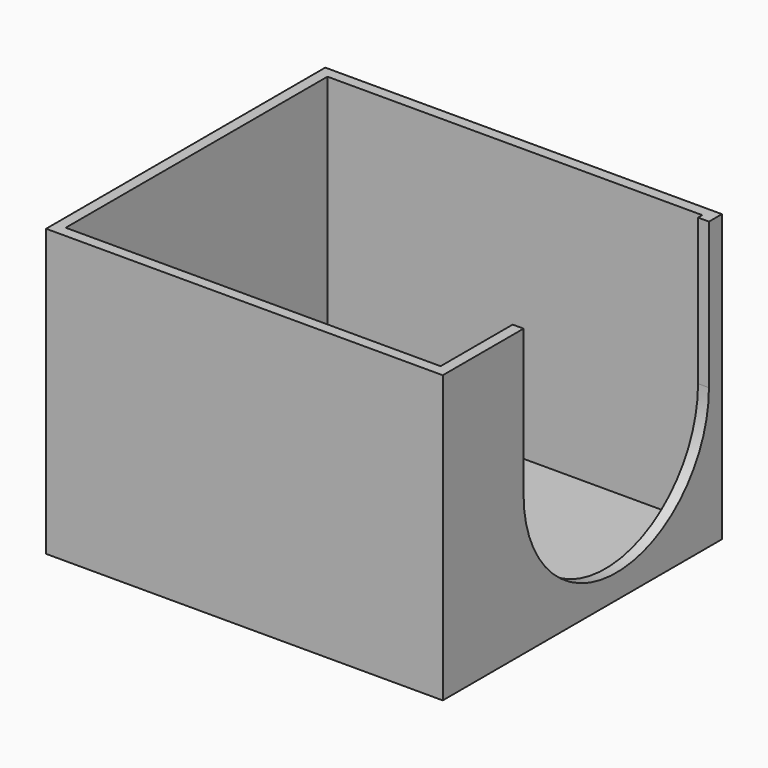
from build123d import *

# Parameters (mm, degrees)
F0_W     = 55
F0_H     = 48
F1_DEPTH = 2
F0_W_2   = 58.2
F0_H_2   = 51.2
F2_DEPTH = 42
F4_DEPTH = 4


with BuildPart() as f1:
    # F0 (on Top) → F1 (new body)
    with BuildSketch(Plane.XY):
        Rectangle(F0_W, F0_H)
    extrude(amount=F1_DEPTH)

    # F0 (on Top) → F2 (join)
    with BuildSketch(Plane.XY):
        Rectangle(F0_W_2, F0_H_2)
        Rectangle(F0_W, F0_H, mode=Mode.SUBTRACT)
    extrude(amount=F2_DEPTH)

    # F3 (on face) → F4 (cut)
    with BuildSketch(Plane.YZ.offset(29.1)):
        with BuildLine():
            ThreePointArc((-10.778551, 20.545242), (6.221449, 37.545242), (23.221449, 20.545242))
            Line((23.221449, 20.545242), (23.221449, 42))
            Line((23.221449, 42), (-10.778551, 42))
            Line((-10.778551, 42), (-10.778551, 20.545242))
        make_face()
        with BuildLine():
            ThreePointArc((-10.778551, 20.545242), (6.221449, 3.545242), (23.221449, 20.545242))
            ThreePointArc((23.221449, 20.545242), (6.221449, 37.545242), (-10.778551, 20.545242))
        make_face()
    extrude(amount=-F4_DEPTH, mode=Mode.SUBTRACT)


solid = f1.part
